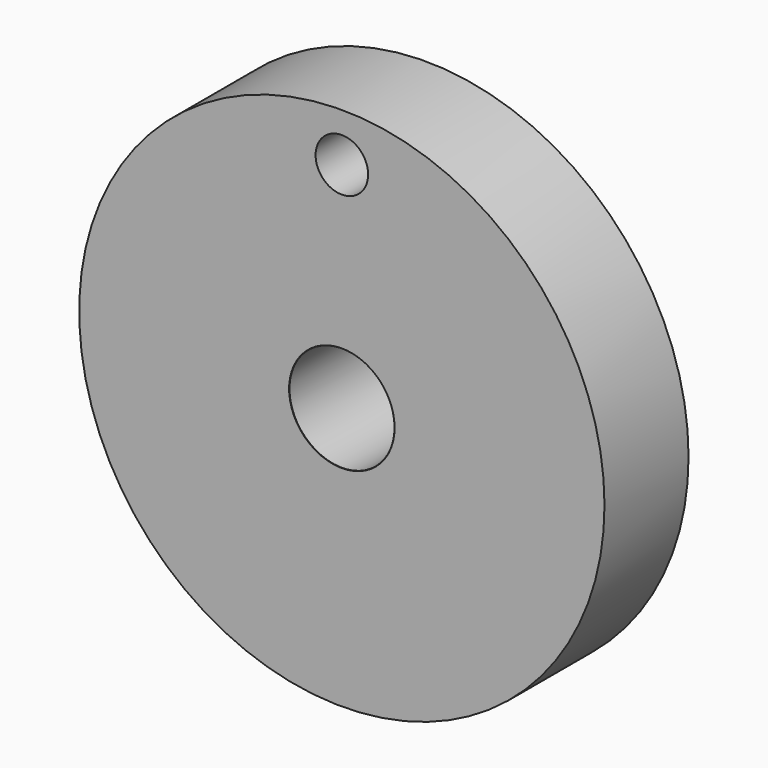
from build123d import *

# Parameters (mm, degrees)
F0_R     = 63.5
F0_R_2   = 12.7
F0_R_3   = 6.35
F1_DEPTH = 25.4
F2_SIZE  = 0.0508


with BuildPart() as f1:
    # F0 (on Front) → F1 (new body)
    with BuildSketch(Plane.XZ):
        Circle(F0_R)
        Circle(F0_R_2, mode=Mode.SUBTRACT)
        with Locations((0, 51.805038)):
            Circle(F0_R_3, mode=Mode.SUBTRACT)
    extrude(amount=F1_DEPTH)

    # F2
    f2_edges = [f1.edges().sort_by_distance(p)[0] for p in [
        (12.7, -12.7, 0),
        (-12.7, 0, 0),
        (-12.7, -25.4, 0),
    ]]
    chamfer(f2_edges, length=F2_SIZE)


solid = f1.part
